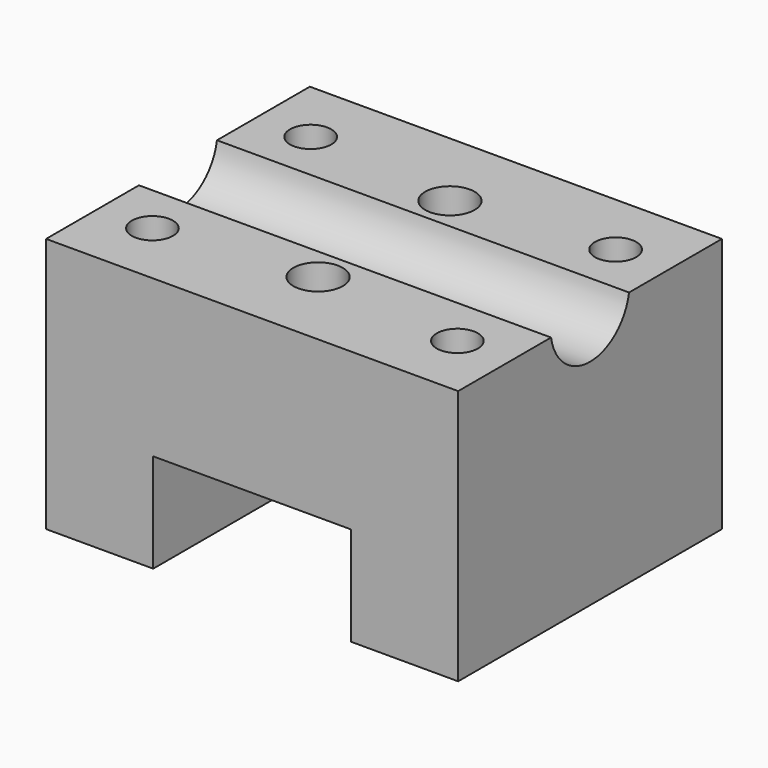
from build123d import *

# Parameters (mm, degrees)
F0_W           = 13
F0_H           = 40
F0_W_2         = 24
F1_DEPTH       = 19
F3_DEPTH       = 50
F4_DEPTH       = 12
F6_D           = 5
F8_D           = 3
F8_CBORE_D     = 6
F8_CBORE_DEPTH = 7
F9_R           = 1.5
F10_DEPTH      = 3


with BuildPart() as f1:
    # F0 (on Top) → F1 (new body)
    with BuildSketch(Plane.XY):
        with Locations((-43.5, -20)):
            Rectangle(F0_W, F0_H)
        with Locations((-25, -20)):
            Rectangle(F0_W_2, F0_H)
        with Locations((-6.5, -20)):
            Rectangle(F0_W, F0_H)
    extrude(amount=F1_DEPTH)

    # F2 (on face) → F3 (cut)
    with BuildSketch(Plane.YZ):
        with BuildLine():
            Line((-14.0839202169, 19), (-25.9160797831, 19))
            ThreePointArc((-25.9160797831, 19), (-20, 14), (-14.0839202169, 19))
        make_face()
    extrude(amount=-F3_DEPTH, mode=Mode.SUBTRACT)

    # F0 (on Top) → F4 (join)
    with BuildSketch(Plane.XY):
        with Locations((-6.5, -20)):
            Rectangle(F0_W, F0_H)
        with Locations((-43.5, -20)):
            Rectangle(F0_W, F0_H)
    extrude(amount=-F4_DEPTH)

    # F6 (through all)
    with Locations(Plane.XY.offset(19)):
        with Locations((-6.5, -32), (-43.5, -32), (-43.5, -8), (-6.5, -8)):
            Hole(F6_D / 2)

    # F8 (through all)
    with Locations(Plane.XY.offset(19)):
        with Locations((-25, -10), (-25, -30)):
            CounterBoreHole(F8_D / 2, F8_CBORE_D / 2, F8_CBORE_DEPTH)

    # F9 (on face) → F10 (cut)
    with BuildSketch(Plane(origin=(0, 0, 0), x_dir=(1, 0, 0), z_dir=(0, 0, -1))):
        Polygon((-23.2679491924, 13), (-26.7320508076, 13), (-28.4641016151, 10), (-26.7320508076, 7), (-23.2679491924, 7), (-21.5358983849, 10), align=None)
        with Locations((-25, 10)):
            Circle(F9_R, mode=Mode.SUBTRACT)
        Polygon((-23.2679491924, 33), (-26.7320508076, 33), (-28.4641016151, 30), (-26.7320508076, 27), (-23.2679491924, 27), (-21.5358983849, 30), align=None)
        with Locations((-25, 30)):
            Circle(F9_R, mode=Mode.SUBTRACT)
    extrude(amount=-F10_DEPTH, mode=Mode.SUBTRACT)


solid = f1.part
